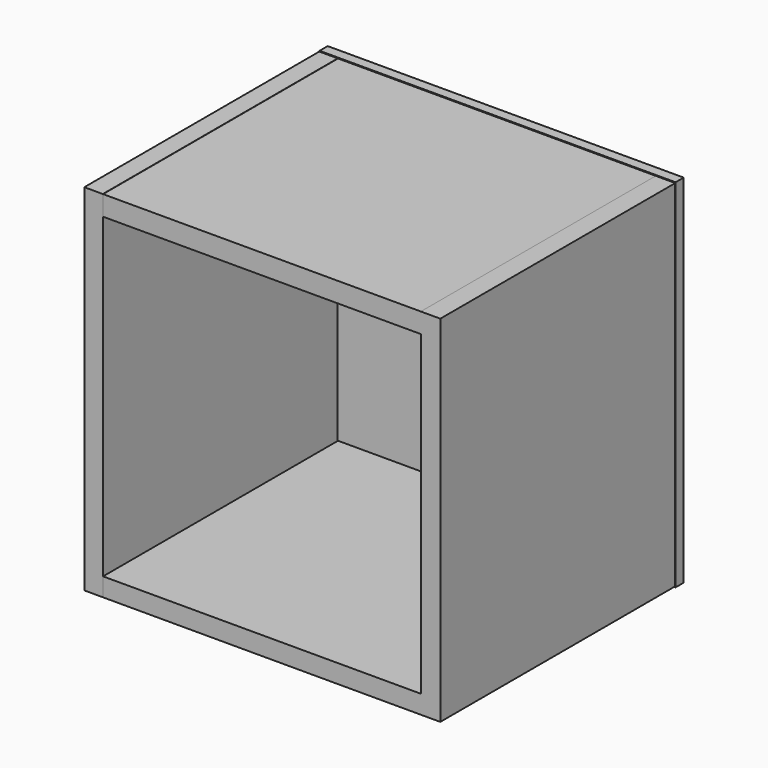
from build123d import *

# Parameters (mm, degrees)
F0_W     = 398.512424
F0_H     = 24.923801
F1_DEPTH = 381
F2_W     = 446.423635
F2_H     = 447.264388
F3_DEPTH = 12.7
F4_W     = 432.198376
F4_H     = 418.703169
F5_DEPTH = 6.35
F6_W     = 12.198135
F6_H     = 58.957581
F7_DEPTH = 25.4


with BuildPart() as f1:
    # F0 (on Front) → F1 (new body)
    with BuildSketch(Plane.XZ):
        Polygon((-199.578598, -221.716329), (-199.578598, -198.542446), (-199.578598, 223.466247), (-222.752482, 223.466247), (-222.752482, -221.716329), align=None)
        with Locations((0, 211.004346)):
            Rectangle(F0_W, F0_H)
        Polygon((199.256212, 198.542446), (199.256212, -198.542446), (223.64977, -198.542446), (223.64977, 223.466247), (199.256212, 223.466247), align=None)
        Polygon((223.64977, -198.542446), (199.256212, -198.542446), (-199.256212, -198.542446), (-199.256212, -221.716329), (223.64977, -221.716329), align=None)
    extrude(amount=F1_DEPTH)


with BuildPart() as f3:
    # F2 (on Front) → F3 (new body)
    with BuildSketch(Plane.XZ):
        with Locations((0.868999, 0.874959)):
            Rectangle(F2_W, F2_H)
    extrude(amount=F3_DEPTH)


with BuildPart() as f5:
    # F4 (on Front) → F5 (new body)
    with BuildSketch(Plane.XZ):
        with Locations((1.515776, -0.509337)):
            Rectangle(F4_W, F4_H)
    extrude(amount=-F5_DEPTH)


with BuildPart() as f7:
    # F6 (on Front) → F7 (new body)
    with BuildSketch(Plane.XZ):
        with Locations((-174.746252, -7.257121)):
            Rectangle(F6_W, F6_H)
    extrude(amount=-F7_DEPTH)


solid = Compound([f1.part, f3.part, f5.part, f7.part])
